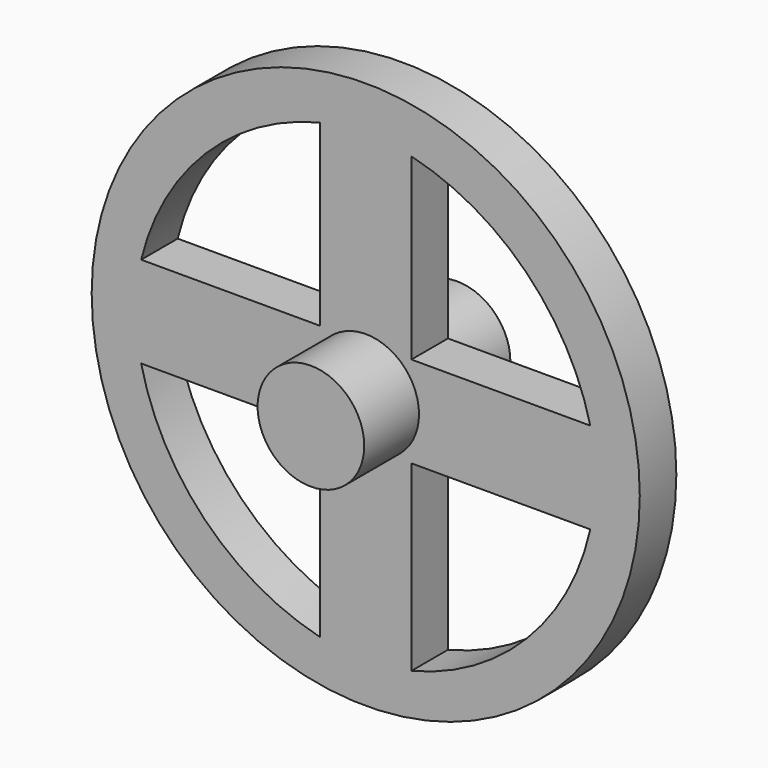
from build123d import *

# Parameters (mm, degrees)
F0_R        = 18
F0_R_2      = 3.5
F1_DEPTH    = 3
F0_R_3      = 1.5
F2_DEPTH    = 7.5
F2_FACE_R   = 3.5
F2_FACE_R_2 = 1.5
F3_DEPTH    = 12
F5_DEPTH    = 250
F6_R        = 2.51997
F7_DEPTH    = 1


with BuildPart() as f1:
    # F0 (on Front) → F1 (new body)
    with BuildSketch(Plane.XZ):
        Circle(F0_R)
        Circle(F0_R_2, mode=Mode.SUBTRACT)
    extrude(amount=F1_DEPTH)

    # F0 (on Front) → F2 (join)
    with BuildSketch(Plane.XZ):
        Circle(F0_R_2)
        Circle(F0_R_3, mode=Mode.SUBTRACT)
    extrude(amount=F2_DEPTH)

    # F2_face (on face) → F3 (join)
    with BuildSketch(Plane.XZ.offset(7.5)):
        Circle(F2_FACE_R)
        Circle(F2_FACE_R_2, mode=Mode.SUBTRACT)
    extrude(amount=-F3_DEPTH)

    # F4 (on face) → F5 (cut)
    with BuildSketch(Plane.XZ.offset(3)):
        with BuildLine():
            Line((-14.748239, 3), (-3, 3))
            Line((-3, 3), (-3, 14.748239))
            ThreePointArc((-3, 14.748239), (-10.518561, 10.518561), (-14.748239, 3))
        make_face()
        with BuildLine():
            Line((3, 14.748239), (3, 3))
            Line((3, 3), (14.748239, 3))
            ThreePointArc((14.748239, 3), (10.518561, 10.518561), (3, 14.748239))
        make_face()
        with BuildLine():
            Line((-3, -15), (-3, -3))
            Line((-3, -3), (-14.748239, -3))
            ThreePointArc((-14.748239, -3), (-10.575033, -10.665228), (-3, -15))
        make_face()
        with BuildLine():
            Line((14.748239, -3), (3, -3))
            Line((3, -3), (3, -15))
            ThreePointArc((3, -15), (10.575033, -10.665228), (14.748239, -3))
        make_face()
    extrude(amount=-F5_DEPTH, mode=Mode.SUBTRACT)

    # F6 (on face) → F7 (join)
    with BuildSketch(Plane.XZ.offset(7.5)):
        Circle(F6_R)
    extrude(amount=-F7_DEPTH)


solid = f1.part
